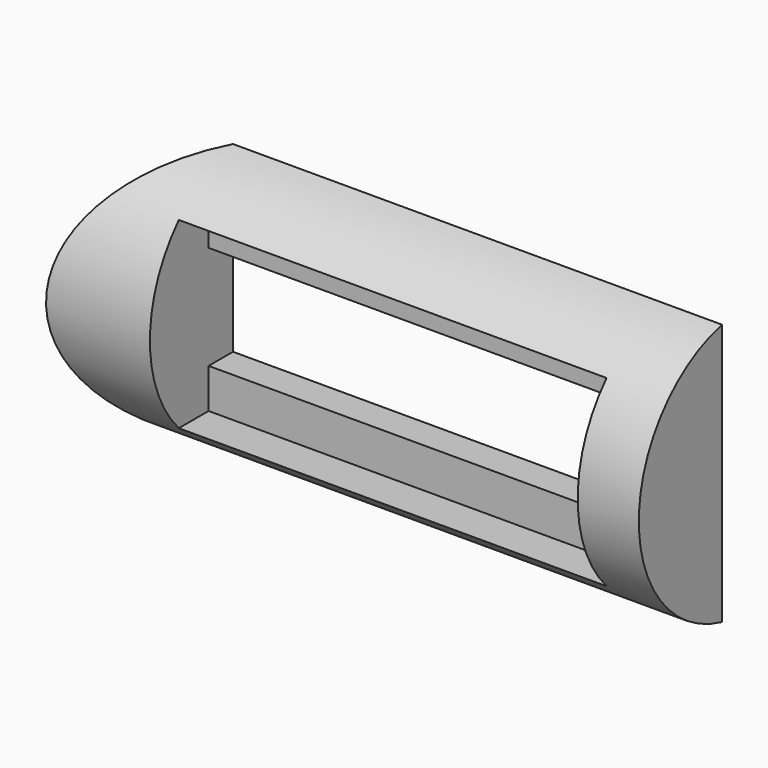
from build123d import *

# Parameters (mm, degrees)
BOX003_W               = 14
BOX003_H               = 10
BOX003_DEPTH           = 10
BOX003_PLACEMENT_ANGLE = 45
BOX002_W               = 7
BOX002_H               = 1.6
BOX002_DEPTH           = 3
BOX001_W               = 7
BOX001_H               = 5
BOX001_DEPTH           = 1.7
BOX_W                  = 14
BOX_H                  = 7
BOX_DEPTH              = 10
CYLINDER_R             = 2.2
CYLINDER_DEPTH         = 13


with BuildPart() as obj1:
    # Box003 → Box003 (new body)
    with BuildSketch(Plane.XY):
        with Locations((7, 5)):
            Rectangle(BOX003_W, BOX003_H)
    extrude(amount=BOX003_DEPTH)


with BuildPart() as obj1_1:
    # Box003 placement: moved
    add(obj1.part.moved(Location((-4.7, -6.2, -3))).rotate(Axis((-4.7, -6.2, -3), (0, 0, 1)), BOX003_PLACEMENT_ANGLE))


with BuildPart() as obj2:
    # Box002 → Box002 (new body)
    with BuildSketch(Plane(origin=(1, -2.6, -1.5), x_dir=(1, 0, 0), z_dir=(0, 0, 1))):
        with Locations((3.5, 0.8)):
            Rectangle(BOX002_W, BOX002_H)
    extrude(amount=BOX002_DEPTH)


with BuildPart() as obj3:
    # Box001 → Box001 (new body)
    with BuildSketch(Plane(origin=(1, -4, -0.85), x_dir=(1, 0, 0), z_dir=(0, 0, 1))):
        with Locations((3.5, 2.5)):
            Rectangle(BOX001_W, BOX001_H)
    extrude(amount=BOX001_DEPTH)


with BuildPart() as obj4:
    # Box → Box (new body)
    with BuildSketch(Plane(origin=(-4, -0.5, -4), x_dir=(1, 0, 0), z_dir=(0, 0, 1))):
        with Locations((7, 3.5)):
            Rectangle(BOX_W, BOX_H)
    extrude(amount=BOX_DEPTH)


with BuildPart() as body:
    # Sketch → Revolution (revolve)
    with BuildSketch(Plane.XY):
        with BuildLine():
            add(Edge.make_bspline(
                [(1.699821, 2.2), (2.24, 1.1), (2.24, 0)],
                knots=[-2.2, -2.2, -2.2, 0, 0, 0], degree=2))
            Line((2.24, 0), (1.699821, 0))
            Line((1.699821, 0), (1.699821, 2.2))
        make_face()
    revolve(axis=Axis((0, 0, 0), (1, 0, 0)))


with BuildPart() as body_1:
    # Body placement: moved
    add(body.part.moved(Location((-1.7, 20, 0))))


with BuildPart() as cut004:
    # Cylinder → Cylinder (new body)
    with BuildSketch(Plane(origin=(-4, 0, 0), x_dir=(0, 0, -1), z_dir=(1, 0, 0))):
        Circle(CYLINDER_R)
    extrude(amount=CYLINDER_DEPTH)

    # Cut: cut Body
    add(body_1.part, mode=Mode.SUBTRACT)

    # Cut001: cut obj4
    add(obj4.part, mode=Mode.SUBTRACT)

    # Cut002: cut obj3
    add(obj3.part, mode=Mode.SUBTRACT)

    # Cut003: cut obj2
    add(obj2.part, mode=Mode.SUBTRACT)

    # Cut004: cut obj1
    add(obj1_1.part, mode=Mode.SUBTRACT)


solid = cut004.part
